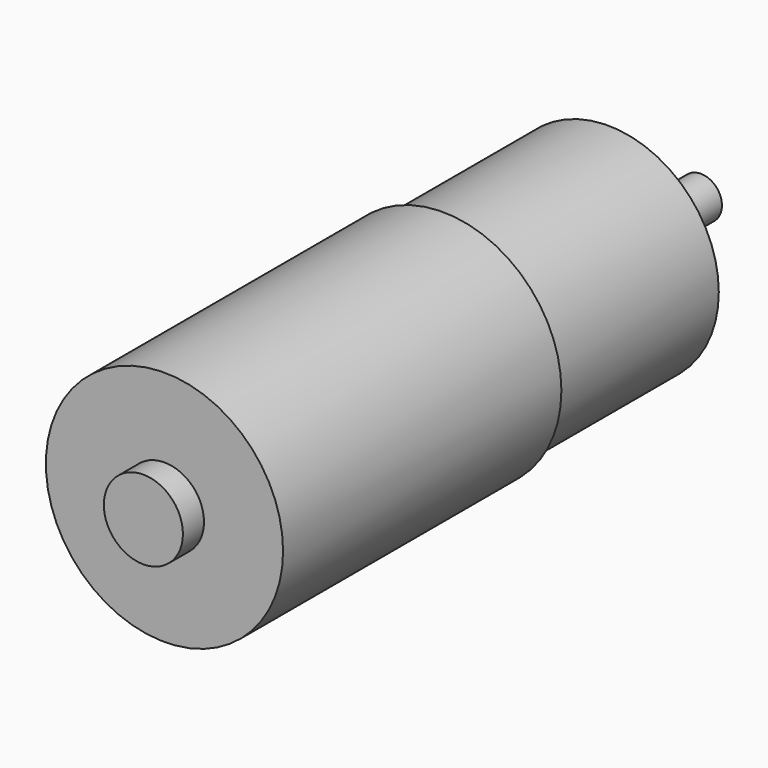
from build123d import *

# Parameters (mm, degrees)
F0_R      = 21
F1_DEPTH  = 39.2
F3_R      = 4
F4_DEPTH  = 22
F5_R      = 12.5
F6_DEPTH  = 2
F7_R      = 22.5
F8_DEPTH  = 66
F9_R      = 7.5
F10_DEPTH = 5
F11_R     = 2
F12_DEPTH = 5


with BuildPart() as f1:
    # F0 (on Front) → F1 (new body)
    with BuildSketch(Plane.XZ):
        Circle(F0_R)
    extrude(amount=F1_DEPTH)

    # F3 (on face) → F4 (join)
    with BuildSketch(Plane(origin=(0, 0, 0), x_dir=(-1, 0, 0), z_dir=(0, 1, 0))):
        Circle(F3_R)
    extrude(amount=F4_DEPTH)

    # F5 (on face) → F6 (join)
    with BuildSketch(Plane(origin=(0, 0, 0), x_dir=(-1, 0, 0), z_dir=(0, 1, 0))):
        Circle(F5_R)
    extrude(amount=F6_DEPTH)

    # F7 (on face) → F8 (join)
    with BuildSketch(Plane.XZ.offset(39.2)):
        Circle(F7_R)
    extrude(amount=F8_DEPTH)

    # F9 (on face) → F10 (join)
    with BuildSketch(Plane.XZ.offset(105.2)):
        Circle(F9_R)
    extrude(amount=F10_DEPTH)

    # F11 (on face) → F12 (cut)
    with BuildSketch(Plane(origin=(0, 0, 0), x_dir=(-1, 0, 0), z_dir=(0, 1, 0))):
        with Locations((-17.5, 0)):
            Circle(F11_R)
        with Locations((0, 17.5)):
            Circle(F11_R)
        with Locations((17.5, 0)):
            Circle(F11_R)
        with Locations((0, -17.5)):
            Circle(F11_R)
    extrude(amount=-F12_DEPTH, mode=Mode.SUBTRACT)


solid = f1.part
